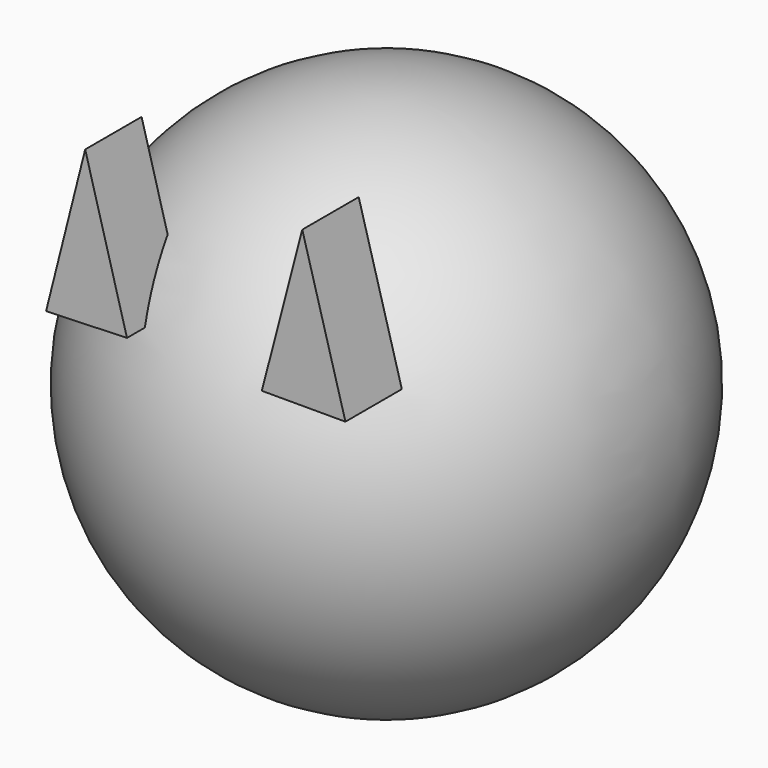
from build123d import *

# Parameters (mm, degrees)
F4_DEPTH = 15.24


with BuildPart() as f1:
    # F0 (on Front) → F1 (revolve)
    with BuildSketch(Plane.XZ):
        with BuildLine():
            Line((0, 56.691967), (0, -56.691967))
            ThreePointArc((0, -56.691967), (56.691967, 0), (0, 56.691967))
        make_face()
    revolve(axis=Axis((0, 0, 0.728689), (0, 0, -1)))

    # F3 (on offset) → F4 (join)
    with BuildSketch(Plane.XZ.offset(38.1)):
        Polygon((-22.443607, 59.023771), (-30.896394, 25.504097), (-13.407868, 26.087049), align=None)
        Polygon((24.483934, 59.023771), (15.739674, 25.504097), (33.811152, 25.504097), align=None)
    extrude(amount=F4_DEPTH)


solid = f1.part
